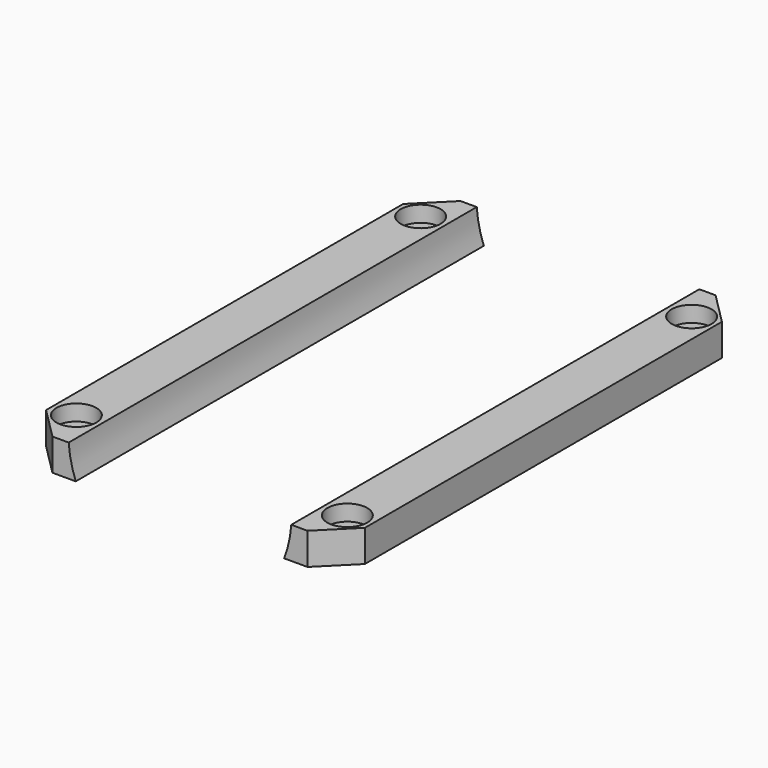
from build123d import *

# Parameters (mm, degrees)
CYLINDER502_R     = 2.5
CYLINDER502_DEPTH = 3
CYLINDER503_R     = 2.5
CYLINDER503_DEPTH = 3
CYLINDER501_R     = 2.5
CYLINDER501_DEPTH = 3
CYLINDER500_R     = 2.5
CYLINDER500_DEPTH = 3
CYLINDER499_R     = 1.25
CYLINDER499_DEPTH = 20
CYLINDER504_R     = 1.25
CYLINDER504_DEPTH = 20
CYLINDER498_R     = 1.25
CYLINDER498_DEPTH = 20
CYLINDER497_R     = 1.25
CYLINDER497_DEPTH = 20
CYLINDER505_R     = 14
CYLINDER505_DEPTH = 64
BOX215_W          = 40
BOX215_H          = 64
BOX215_DEPTH      = 4
CHAMFER004_SIZE   = 4
CHAMFER005_SIZE   = 4


with BuildPart() as obj1:
    # Cylinder502 → Cylinder502 (new body)
    with BuildSketch(Plane(origin=(58, -43, 26), x_dir=(1, 0, 0), z_dir=(0, 0, 1))):
        Circle(CYLINDER502_R)
    extrude(amount=CYLINDER502_DEPTH)


with BuildPart() as compound605:
    # Cylinder503 → Cylinder503 (new body)
    with BuildSketch(Plane(origin=(58, 11, 26), x_dir=(1, 0, 0), z_dir=(0, 0, 1))):
        Circle(CYLINDER503_R)
    extrude(amount=CYLINDER503_DEPTH)

    # Compound605: union obj1
    add(obj1.part)


with BuildPart() as compound605_1:
    # Compound605 placement: moved
    add(compound605.part.moved(Location((34, 0, 13))))


with BuildPart() as obj2:
    # Cylinder501 → Cylinder501 (new body)
    with BuildSketch(Plane(origin=(58, -43, 26), x_dir=(1, 0, 0), z_dir=(0, 0, 1))):
        Circle(CYLINDER501_R)
    extrude(amount=CYLINDER501_DEPTH)


with BuildPart() as compound607:
    # Cylinder500 → Cylinder500 (new body)
    with BuildSketch(Plane(origin=(58, 11, 26), x_dir=(1, 0, 0), z_dir=(0, 0, 1))):
        Circle(CYLINDER500_R)
    extrude(amount=CYLINDER500_DEPTH)

    # Compound606: union obj2
    add(obj2.part)


with BuildPart() as compound607_1:
    # Compound606 placement: moved
    add(compound607.part.moved(Location((0, 0, 13))))

    # Compound607: union Compound605
    add(compound605_1.part)


with BuildPart() as obj3:
    # Cylinder499 → Cylinder499 (new body)
    with BuildSketch(Plane(origin=(58, -43, 26), x_dir=(1, 0, 0), z_dir=(0, 0, 1))):
        Circle(CYLINDER499_R)
    extrude(amount=CYLINDER499_DEPTH)


with BuildPart() as compound610:
    # Cylinder504 → Cylinder504 (new body)
    with BuildSketch(Plane(origin=(58, 11, 26), x_dir=(1, 0, 0), z_dir=(0, 0, 1))):
        Circle(CYLINDER504_R)
    extrude(amount=CYLINDER504_DEPTH)

    # Compound610: union obj3
    add(obj3.part)


with BuildPart() as compound610_1:
    # Compound610 placement: moved
    add(compound610.part.moved(Location((34, 0, 0))))


with BuildPart() as obj4:
    # Cylinder498 → Cylinder498 (new body)
    with BuildSketch(Plane(origin=(58, -43, 26), x_dir=(1, 0, 0), z_dir=(0, 0, 1))):
        Circle(CYLINDER498_R)
    extrude(amount=CYLINDER498_DEPTH)


with BuildPart() as compound609:
    # Cylinder497 → Cylinder497 (new body)
    with BuildSketch(Plane(origin=(58, 11, 26), x_dir=(1, 0, 0), z_dir=(0, 0, 1))):
        Circle(CYLINDER497_R)
    extrude(amount=CYLINDER497_DEPTH)

    # Compound608: union obj4
    add(obj4.part)

    # Compound609: union Compound610
    add(compound610_1.part)


with BuildPart() as obj5:
    # Cylinder505 → Cylinder505 (new body)
    with BuildSketch(Plane(origin=(75, 16, 42), x_dir=(1, 0, 0), z_dir=(0, -1, 0))):
        Circle(CYLINDER505_R)
    extrude(amount=CYLINDER505_DEPTH)


with BuildPart() as chamfer005:
    # Box215 → Box215 (new body)
    with BuildSketch(Plane(origin=(55, -48, 37), x_dir=(1, 0, 0), z_dir=(0, 0, 1))):
        with Locations((20, 32)):
            Rectangle(BOX215_W, BOX215_H)
    extrude(amount=BOX215_DEPTH)

    # Cut378: cut obj5
    add(obj5.part, mode=Mode.SUBTRACT)

    # Cut379: cut Compound609
    add(compound609.part, mode=Mode.SUBTRACT)

    # Cut380: cut Compound607
    add(compound607_1.part, mode=Mode.SUBTRACT)

    # Chamfer004
    chamfer004_edges = [chamfer005.edges().sort_by_distance(p)[0] for p in [
        (55, -48, 39),
        (95, -48, 39),
    ]]
    chamfer(chamfer004_edges, length=CHAMFER004_SIZE)

    # Chamfer005
    chamfer005_edges = [chamfer005.edges().sort_by_distance(p)[0] for p in [
        (55, 16, 39),
        (95, 16, 39),
    ]]
    chamfer(chamfer005_edges, length=CHAMFER005_SIZE)


solid = chamfer005.part
